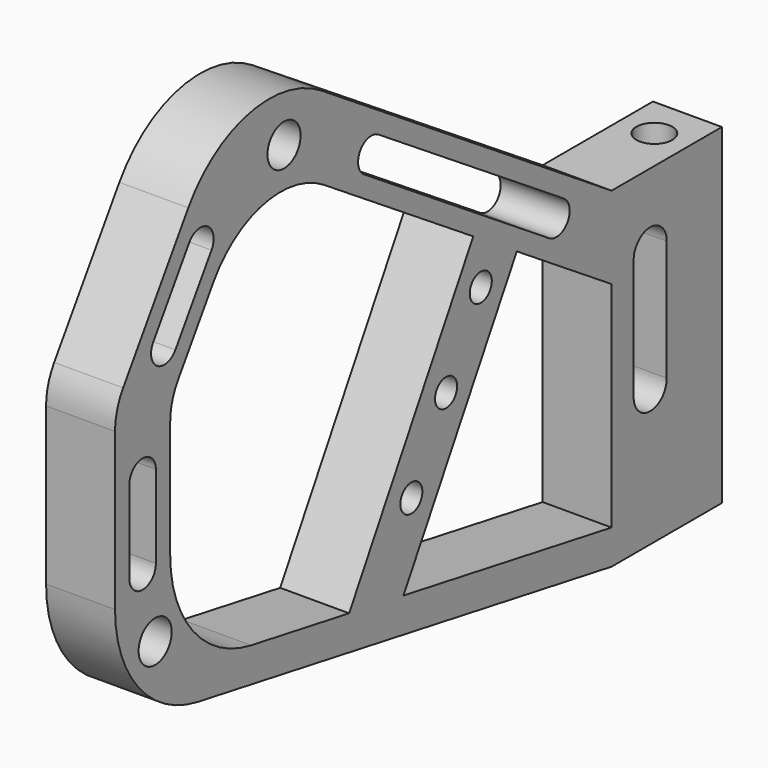
from build123d import *

# Parameters (mm, degrees)
SKETCH_R        = 1.5
SKETCH_R_2      = 1
PAD_DEPTH       = 2.5
SKETCH002_R     = 1.3
POCKET001_DEPTH = 5
SKETCH003_R     = 1.3
POCKET002_DEPTH = 5


with BuildPart() as part:
    # Sketch → Pad (new body, symmetric)
    with BuildSketch(Plane.YZ):
        with BuildLine():
            Line((5, -12), (-5, -12))
            Line((-5, -12), (-42.491034, -5.389319))
            ThreePointArc((-50, 3.559518), (-47.874072, -2.281421), (-42.491034, -5.389319))
            Line((-50, 3.559518), (-50, 14.930703))
            ThreePointArc((-49.265951, 17.408811), (-49.81263, 16.222973), (-50, 14.930703))
            Line((-49.265951, 17.408811), (-43.362064, 26.5))
            ThreePointArc((-31.281961, 29.067705), (-37.853802, 30.285724), (-43.362064, 26.5))
            Line((-5, 12), (-31.281961, 29.067705))
            Line((5, 12), (-5, 12))
            Line((5, 12), (5, -9.5))
            Line((5, -12), (5, -9.5))
        make_face()
        with Locations((-34.683969, 26.982892)):
            Circle(SKETCH_R, mode=Mode.SUBTRACT)
        with Locations((-46.364789, 0.041977)):
            Circle(SKETCH_R, mode=Mode.SUBTRACT)
        with Locations((-20, 5.209335)):
            Circle(SKETCH_R_2, mode=Mode.SUBTRACT)
        with Locations((-16.855, 10.656635)):
            Circle(SKETCH_R_2, mode=Mode.SUBTRACT)
        with Locations((-23.145, -0.237965)):
            Circle(SKETCH_R_2, mode=Mode.SUBTRACT)
        Polygon((-5, 6.038184), (-5, -9.5), (-23.859805, -6.174507), (-13.588624, 11.615701), align=None, mode=Mode.SUBTRACT)
        with BuildLine():
            Line((-41.094301, 20.811657), (-44.299169, 15.876592))
            ThreePointArc((-44.299169, 15.876592), (-44.821109, 14.744417), (-45, 13.510627))
            Line((-45, 13.510627), (-45, 5))
            ThreePointArc((-45, 5), (-42.923669, -0.704672), (-37.666214, -3.740065))
            Line((-37.666214, -3.740065), (-28.783844, -5.306267))
            Line((-17.534494, 14.178179), (-28.783844, -5.306267))
            Line((-31.040008, 22.948763), (-17.534494, 14.178179))
            ThreePointArc((-31.040008, 22.948763), (-36.509764, 23.962522), (-41.094301, 20.811657))
        make_face(mode=Mode.SUBTRACT)
        with BuildLine():
            ThreePointArc((-26.119845, 24.165315), (-27.779816, 23.812477), (-27.426978, 22.152506))
            Line((-27.426978, 22.152506), (-10.653567, 11.259725))
            ThreePointArc((-10.653567, 11.259725), (-8.993595, 11.612563), (-9.346433, 13.272534))
            Line((-26.119845, 24.165315), (-9.346433, 13.272534))
        make_face(mode=Mode.SUBTRACT)
        with BuildLine():
            ThreePointArc((-46.541762, 19.216792), (-46.188924, 17.55682), (-44.528953, 17.909658))
            Line((-44.528953, 17.909658), (-41.261119, 22.941682))
            ThreePointArc((-41.261119, 22.941682), (-41.613957, 24.601653), (-43.273928, 24.248815))
            Line((-46.541762, 19.216792), (-43.273928, 24.248815))
        make_face(mode=Mode.SUBTRACT)
        with BuildLine():
            ThreePointArc((-46.3, 11), (-47.5, 12.2), (-48.7, 11))
            Line((-48.7, 11), (-48.7, 5))
            ThreePointArc((-48.7, 5), (-47.5, 3.8), (-46.3, 5))
            Line((-46.3, 11), (-46.3, 5))
        make_face(mode=Mode.SUBTRACT)
        with BuildLine():
            ThreePointArc((0, 6.746165), (-1.5, 8.246165), (-3, 6.746165))
            Line((-3, 6.746165), (-3, -2))
            ThreePointArc((-3, -2), (-1.5, -3.5), (0, -2))
            Line((0, 6.746165), (0, -2))
        make_face(mode=Mode.SUBTRACT)
    extrude(amount=PAD_DEPTH, both=True)

    # Sketch002 (on Face9 of Pad) → Pocket001 (cut)
    with BuildSketch(Plane(origin=(0, 0, 12), x_dir=(0, -1, 0), z_dir=(0, 0, 1))):
        with Locations((-2, 0)):
            Circle(SKETCH002_R)
    extrude(amount=-POCKET001_DEPTH, mode=Mode.SUBTRACT)

    # Sketch003 (on Face1 of Pocket001) → Pocket002 (cut)
    with BuildSketch(Plane.YX.offset(12)):
        with Locations((-2, 0)):
            Circle(SKETCH003_R)
        with Locations((2, 0)):
            Circle(SKETCH003_R)
    extrude(amount=-POCKET002_DEPTH, mode=Mode.SUBTRACT)


solid = part.part
